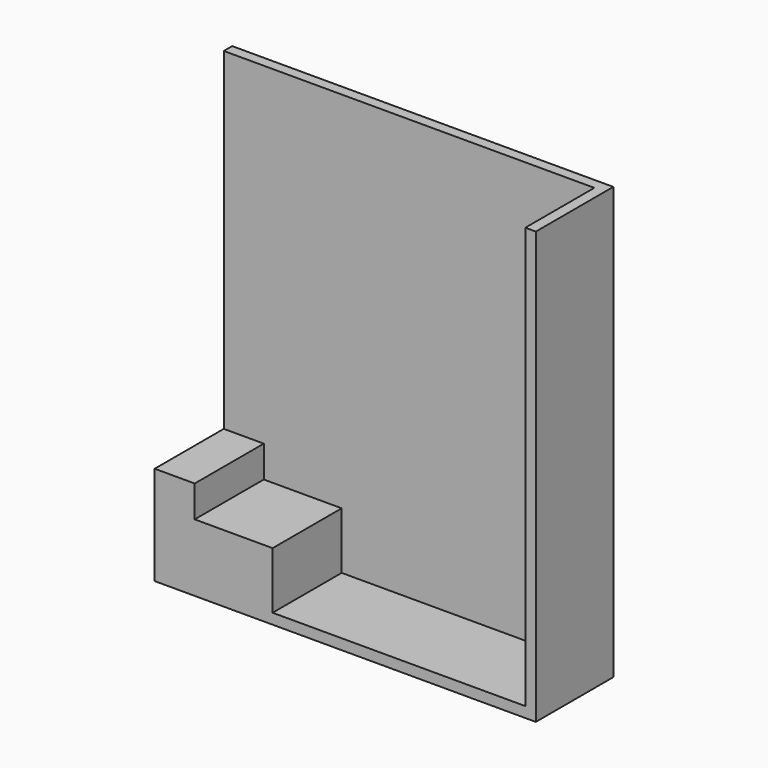
from build123d import *

# Parameters (mm, degrees)
F0_W     = 370
F0_H     = 270
F0_W_2   = 50
F0_H_2   = 2000
F1_DEPTH = 410
F2_W     = 1810
F2_H     = 2050
F3_DEPTH = 50


with BuildPart() as f1:
    # F0 (on Front) → F1 (new body)
    with BuildSketch(Plane.XZ):
        Polygon((-1853.846294, 0), (-2223.846294, 0), (-2413.846294, 0), (-2413.846294, -50), (-603.846294, -50), (-603.846294, 0), (-653.846294, 0), align=None)
        Polygon((-2413.846294, 0), (-2223.846294, 0), (-2223.846294, 270), (-2223.846294, 420), (-2413.846294, 420), align=None)
        with Locations((-2038.846294, 135)):
            Rectangle(F0_W, F0_H)
        with Locations((-628.846294, 1000)):
            Rectangle(F0_W_2, F0_H_2)
    extrude(amount=F1_DEPTH)

    # F2 (on face) → F3 (join)
    with BuildSketch(Plane(origin=(0, 0, 0), x_dir=(-1, 0, 0), z_dir=(0, 1, 0))):
        with Locations((1508.846294, 975)):
            Rectangle(F2_W, F2_H)
    extrude(amount=F3_DEPTH)


solid = f1.part
